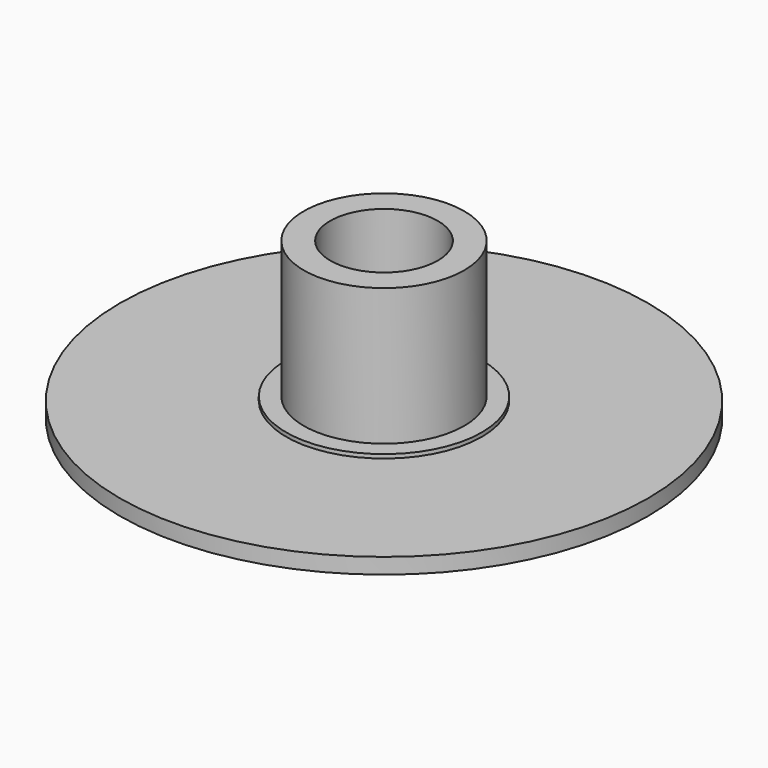
from build123d import *

# Parameters (mm, degrees)
F0_R     = 13.5
F0_R_2   = 5
F1_DEPTH = 0.8
F0_R_3   = 4.1
F0_R_4   = 2.75
F2_DEPTH = 8
F3_DEPTH = 1


with BuildPart() as f1:
    # F0 (on Top) → F1 (new body)
    with BuildSketch(Plane.XY):
        Circle(F0_R)
        Circle(F0_R_2, mode=Mode.SUBTRACT)
    extrude(amount=F1_DEPTH)



with BuildPart() as f2:
    # F0 (on Top) → F2 (new body)
    with BuildSketch(Plane.XY):
        Circle(F0_R_3)
        Circle(F0_R_4, mode=Mode.SUBTRACT)
    extrude(amount=F2_DEPTH)


with BuildPart() as f1_1:
    add(f1.part)

    add(f2.part)  # F3 merges F2
    # F0 (on Top) → F3 (join)
    with BuildSketch(Plane.XY):
        Circle(F0_R_2)
        Circle(F0_R_3, mode=Mode.SUBTRACT)
    extrude(amount=F3_DEPTH)


solid = f1_1.part
